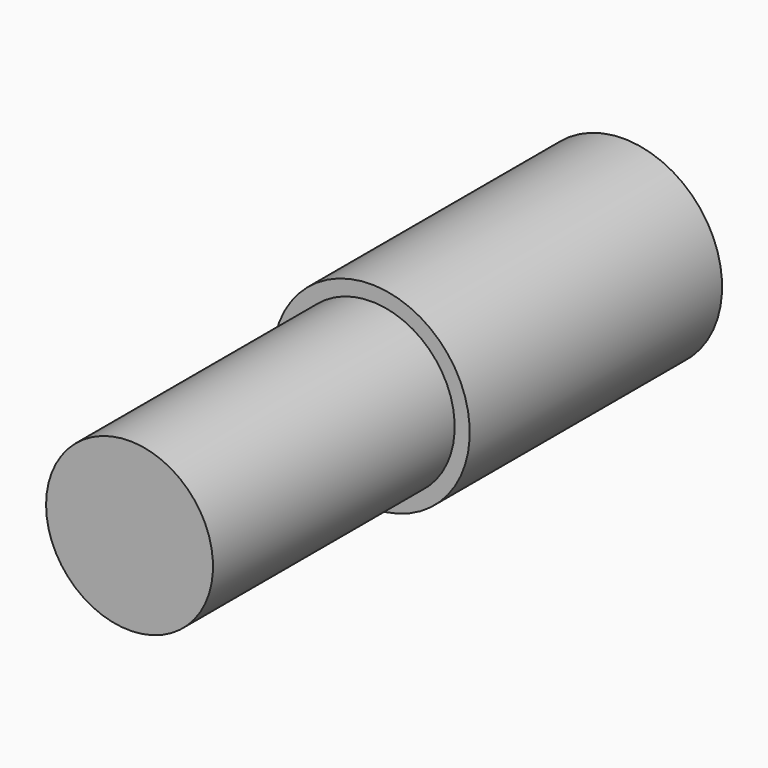
from build123d import *

# Parameters (mm, degrees)
F0_W     = 32.7049233019
F0_H     = 104.7131195664
F2_T     = -5
F3_DEPTH = 200


with BuildPart() as f1:
    # F0 (on Top) → F1 (revolve)
    with BuildSketch(Plane.XY):
        with Locations((-16.352461651, 0)):
            Rectangle(F0_W, F0_H)
    revolve(axis=Axis((0, 0, 0), (0, -1, 0)))

    # F2
    f2_openings = [f1.faces().sort_by_distance(p)[0] for p in [
        (0, -52.35656, 0),
    ]]
    offset(amount=F2_T, openings=f2_openings)

    # F3 (add): a face of the model
    f3_faces = [f1.faces().sort_by_distance(p)[0] for p in [
        (0, 47.3565597832, 0),
    ]]
    extrude(f3_faces, amount=F3_DEPTH)


solid = f1.part
